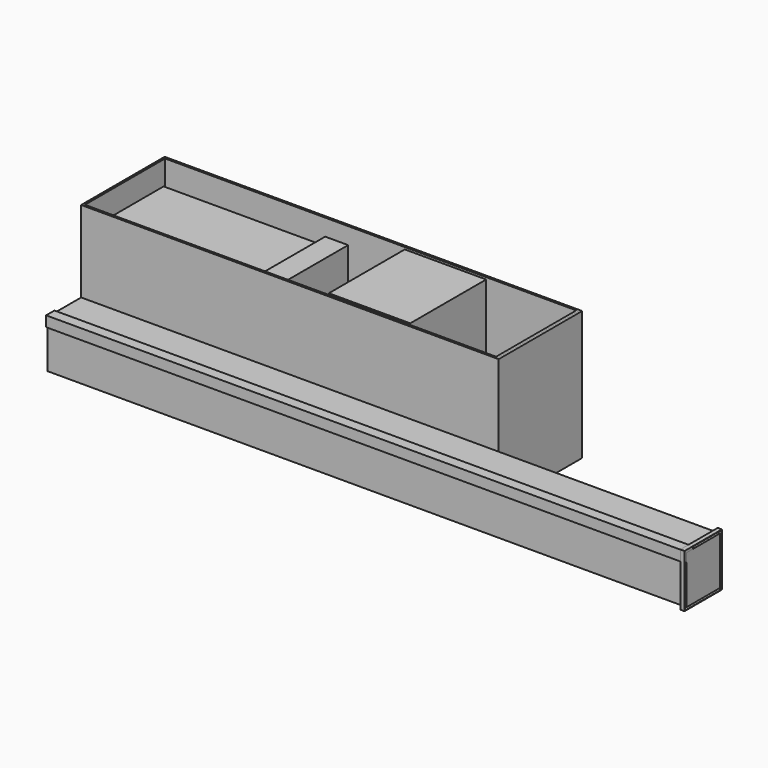
from build123d import *

# Parameters (mm, degrees)
F0_W      = 1000
F0_H      = 250
F1_DEPTH  = 310
F2_T      = -5
F3_W      = 410
F3_H      = 230
F4_DEPTH  = 170
F5_W      = 365
F5_H      = 230
F6_DEPTH  = 80
F7_W      = 55
F7_H      = 200
F8_DEPTH  = 290
F9_W      = 195
F9_H      = 230
F10_DEPTH = 300
F11_W     = 1530
F11_H     = 100
F12_DEPTH = 115
F13_W     = 240
F13_H     = 305
F14_DEPTH = 5
F16_DEPTH = 1530
F17_W     = 112
F17_H     = 127
F17_W_2   = 110
F17_H_2   = 125
F18_DEPTH = 10


with BuildPart() as f1:
    # F0 (on Top) → F1 (new body)
    with BuildSketch(Plane.XY):
        with Locations((500, 125)):
            Rectangle(F0_W, F0_H)
    extrude(amount=F1_DEPTH)

    # F2
    f2_openings = [f1.faces().sort_by_distance(p)[0] for p in [
        (500, 125, 310),
    ]]
    offset(amount=F2_T, openings=f2_openings)


with BuildPart() as f4:
    # F3 (on face) → F4 (new body)
    with BuildSketch(Plane.XY.offset(5)):
        with Locations((212.5, 122.5)):
            Rectangle(F3_W, F3_H)
    extrude(amount=F4_DEPTH)


with BuildPart() as f6:
    # F5 (on face) → F6 (new body)
    with BuildSketch(Plane.XY.offset(175)):
        with Locations((190, 122.5)):
            Rectangle(F5_W, F5_H)
    extrude(amount=F6_DEPTH)


with BuildPart() as f8:
    # F7 (on face) → F8 (new body)
    with BuildSketch(Plane.XY.offset(5)):
        with Locations((446, 107.5)):
            Rectangle(F7_W, F7_H)
    extrude(amount=F8_DEPTH)


with BuildPart() as f10:
    # F9 (on face) → F10 (new body)
    with BuildSketch(Plane.XY.offset(5)):
        with Locations((676.612673, 132.701575)):
            Rectangle(F9_W, F9_H)
    extrude(amount=F10_DEPTH)


with BuildPart() as f12:
    # F11 (on Top) → F12 (new body)
    with BuildSketch(Plane.XY):
        with Locations((765, -50)):
            Rectangle(F11_W, F11_H)
    extrude(amount=F12_DEPTH)


with BuildPart() as f14:
    # F13 (on face) → F14 (new body)
    with BuildSketch(Plane(origin=(995, 0, 0), x_dir=(0, -1, 0), z_dir=(-1, 0, 0))):
        with Locations((-125, 157.5)):
            Rectangle(F13_W, F13_H)
    extrude(amount=F14_DEPTH)


with BuildPart() as f16:
    # F15 (on face) → F16 (new body, through all)
    with BuildSketch(Plane.YZ.offset(1530)):
        Polygon((-100, 95), (-100, 115), (-80, 115), (-80, 120), (-105, 120), (-105, 95), align=None)
    extrude(amount=-F16_DEPTH)


with BuildPart() as f18:
    # F17 (on face) → F18 (new body)
    with BuildSketch(Plane.YZ.offset(1530)):
        with Locations((-50, 57.5)):
            Rectangle(F17_W, F17_H)
        with Locations((-50, 57.5)):
            Rectangle(F17_W_2, F17_H_2, mode=Mode.SUBTRACT)
    extrude(amount=-F18_DEPTH)


solid = Compound([f1.part, f4.part, f6.part, f8.part, f10.part, f12.part, f14.part, f16.part, f18.part])
